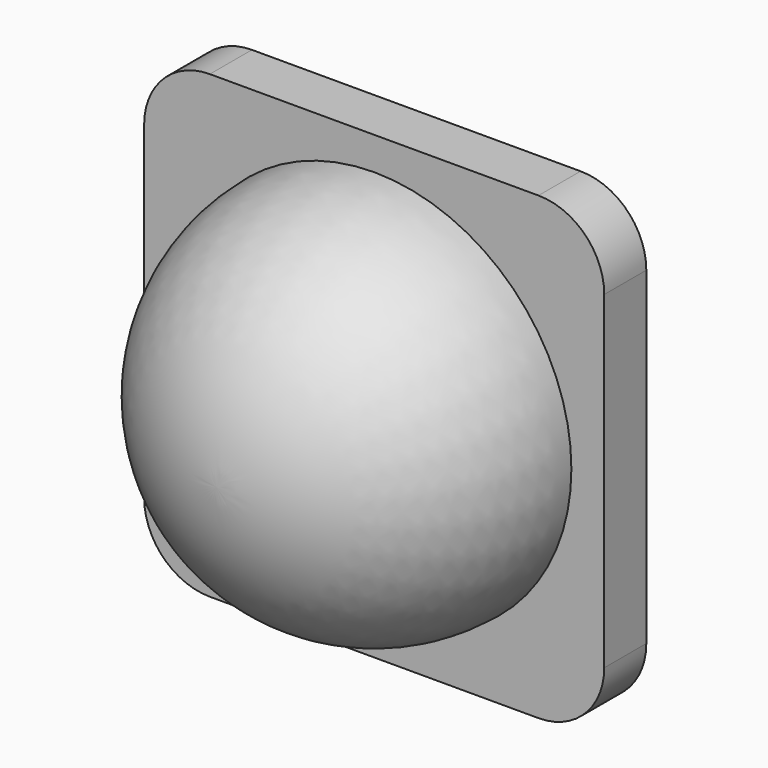
from build123d import *

# Parameters (mm, degrees)
F2_T     = -2
F3_R     = 7.5
F3_R_2   = 5.5
F4_DEPTH = 2


with BuildPart() as f1:
    # F0 (on Top) → F1 (revolve)
    with BuildSketch(Plane.XY):
        with BuildLine():
            Line((0, 0), (-7.5, 0))
            ThreePointArc((-7.5, 0), (-5.303301, -5.303301), (0, -7.5))
            Line((0, -7.5), (0, 0))
        make_face()
    revolve(axis=Axis((0, -3.75, 0), (0, -1, 0)))

    # F2
    f2_openings = [f1.faces().sort_by_distance(p)[0] for p in [
        (0, 0, 0),
    ]]
    offset(amount=F2_T, openings=f2_openings)

    # F3 (on face) → F4 (join)
    with BuildSketch(Plane(origin=(0, 0, 0), x_dir=(-1, 0, 0), z_dir=(0, 1, 0))):
        with BuildLine():
            Line((-6.25, -8.75), (6.25, -8.75))
            ThreePointArc((6.25, -8.75), (8.017767, -8.017767), (8.75, -6.25))
            Line((8.75, -6.25), (8.75, 6.25))
            ThreePointArc((8.75, 6.25), (8.017767, 8.017767), (6.25, 8.75))
            Line((6.25, 8.75), (-6.25, 8.75))
            ThreePointArc((-6.25, 8.75), (-8.017767, 8.017767), (-8.75, 6.25))
            Line((-8.75, 6.25), (-8.75, -6.25))
            ThreePointArc((-8.75, -6.25), (-8.017767, -8.017767), (-6.25, -8.75))
        make_face()
        Circle(F3_R, mode=Mode.SUBTRACT)
        Circle(F3_R)
        Circle(F3_R_2, mode=Mode.SUBTRACT)
    extrude(amount=F4_DEPTH)


solid = f1.part
